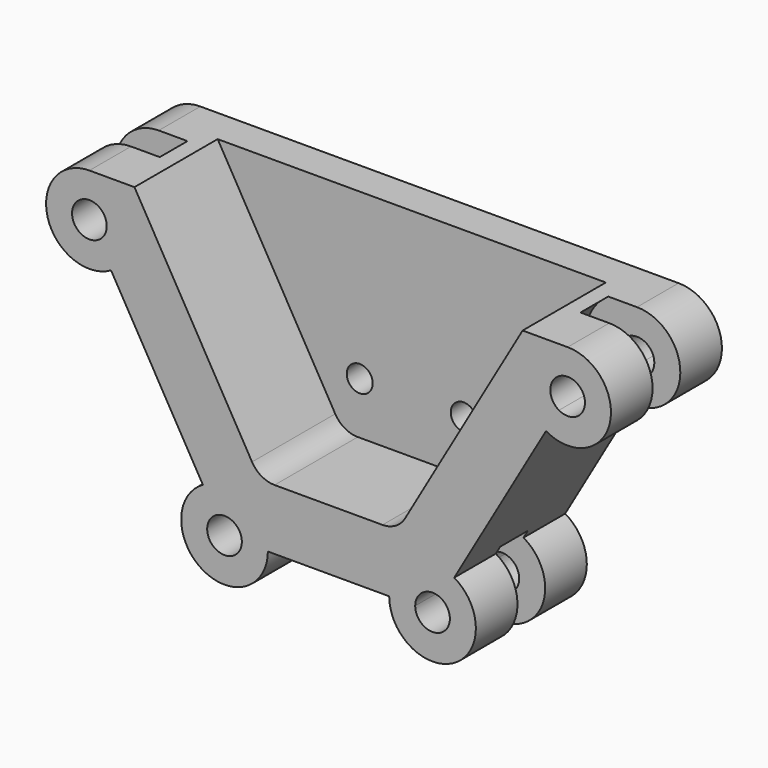
from build123d import *

# Parameters (mm, degrees)
F1_DEPTH = 50.8
F3_DEPTH = 76.2
F4_R     = 38.1
F5_DEPTH = 12.7
F6_R     = 9.525
F7_DEPTH = 25.401
F8_R     = 19.05


with BuildPart() as f1:
    # F0 (on Front) → F1 (new body, symmetric)
    with BuildSketch(Plane.XZ):
        with BuildLine():
            ThreePointArc((-143.4367036526, 171.45), (-152.7360633499, 193.9006403027), (-175.1867036526, 203.2))
            ThreePointArc((-175.1867036526, 203.2), (-205.8548486372, 163.232495318), (-159.3117036526, 143.9536934298))
            ThreePointArc((-159.3117036526, 143.9536934298), (-147.6903970824, 155.575), (-143.4367036526, 171.45))
        make_face()
        with BuildLine():
            ThreePointArc((-162.4867036526, 171.45), (-164.1881810245, 165.1), (-168.8367036526, 160.4514773719))
            ThreePointArc((-168.8367036526, 160.4514773719), (-186.1852262806, 177.8), (-162.4867036526, 171.45))
        make_face(mode=Mode.SUBTRACT)
        with BuildLine():
            Line((92.075, 27.4963065702), (159.3117036526, 143.9536934298))
            ThreePointArc((159.3117036526, 143.9536934298), (144.5185586679, 179.667504682), (175.1867036526, 203.2))
            Line((175.1867036526, 203.2), (-175.1867036526, 203.2))
            ThreePointArc((-175.1867036526, 203.2), (-152.7360633499, 193.9006403027), (-143.4367036526, 171.45))
            ThreePointArc((-143.4367036526, 171.45), (-147.6903970824, 155.575), (-159.3117036526, 143.9536934298))
            Line((-159.3117036526, 143.9536934298), (-92.075, 27.4963065702))
            ThreePointArc((-92.075, 27.4963065702), (-60.325, 27.4963065702), (-44.45, 0))
            Line((-44.45, 0), (44.45, 0))
            ThreePointArc((44.45, 0), (60.325, 27.4963065702), (92.075, 27.4963065702))
        make_face()
        with BuildLine():
            ThreePointArc((175.1867036526, 203.2), (144.5185586679, 179.667504682), (159.3117036526, 143.9536934298))
            ThreePointArc((159.3117036526, 143.9536934298), (191.0617036526, 143.9536934298), (206.9367036526, 171.45))
            ThreePointArc((206.9367036526, 171.45), (197.6373439552, 193.9006403027), (175.1867036526, 203.2))
        make_face()
        with BuildLine():
            ThreePointArc((187.8867036526, 171.45), (181.5367036526, 160.4514773719), (168.8367036526, 160.4514773719))
            ThreePointArc((168.8367036526, 160.4514773719), (168.8367036526, 182.4485226281), (187.8867036526, 171.45))
        make_face(mode=Mode.SUBTRACT)
        with BuildLine():
            ThreePointArc((107.95, 0), (103.6963065702, 15.875), (92.075, 27.4963065702))
            Line((92.075, 27.4963065702), (82.55, 10.9985226281))
            ThreePointArc((82.55, 10.9985226281), (87.1985226281, 6.35), (88.9, 0))
            ThreePointArc((88.9, 0), (76.2, -12.7), (63.5, 0))
            Line((63.5, 0), (44.45, 0))
            ThreePointArc((44.45, 0), (76.2, -31.75), (107.95, 0))
        make_face()
        with BuildLine():
            Line((82.55, 10.9985226281), (92.075, 27.4963065702))
            ThreePointArc((92.075, 27.4963065702), (60.325, 27.4963065702), (44.45, 0))
            Line((44.45, 0), (63.5, 0))
            ThreePointArc((63.5, 0), (69.85, 10.9985226281), (82.55, 10.9985226281))
        make_face()
        with BuildLine():
            Line((-63.5, 0), (-44.45, 0))
            ThreePointArc((-44.45, 0), (-60.325, 27.4963065702), (-92.075, 27.4963065702))
            Line((-92.075, 27.4963065702), (-82.55, 10.9985226281))
            ThreePointArc((-82.55, 10.9985226281), (-69.85, 10.9985226281), (-63.5, 0))
        make_face()
        with BuildLine():
            ThreePointArc((-92.075, 27.4963065702), (-92.075, -27.4963065702), (-44.45, 0))
            Line((-44.45, 0), (-63.5, 0))
            ThreePointArc((-63.5, 0), (-82.55, -10.9985226281), (-82.55, 10.9985226281))
            Line((-82.55, 10.9985226281), (-92.075, 27.4963065702))
        make_face()
    extrude(amount=F1_DEPTH, both=True)

    # F2 (on face) → F3 (cut)
    with BuildSketch(Plane.XZ.offset(50.8)):
        Polygon((-50.5367805345, 44.45), (0, 44.45), (50.5367805345, 44.45), (142.1911357684, 203.2), (-142.1911357684, 203.2), align=None)
    extrude(amount=-F3_DEPTH, mode=Mode.SUBTRACT)

    # F4 (on Front) → F5 (cut, symmetric)
    with BuildSketch(Plane.XZ):
        with Locations((-175.1867036526, 171.45)):
            Circle(F4_R)
        with Locations((-76.2, 0)):
            Circle(F4_R)
        with Locations((76.2, 0)):
            Circle(F4_R)
        with Locations((175.1867036526, 171.45)):
            Circle(F4_R)
    extrude(amount=F5_DEPTH, both=True, mode=Mode.SUBTRACT)

    # F6 (on face) → F7 (cut, through all)
    with BuildSketch(Plane.XZ.offset(-25.4)):
        with Locations((38.1, 82.55)):
            Circle(F6_R)
        with Locations((-38.1, 82.55)):
            Circle(F6_R)
    extrude(amount=-F7_DEPTH, mode=Mode.SUBTRACT)

    # F8
    f8_edges = [f1.edges().sort_by_distance(p)[0] for p in [
        (-50.536781, -12.7, 44.45),
        (50.536781, -12.7, 44.45),
    ]]
    fillet(f8_edges, radius=F8_R)


solid = f1.part
